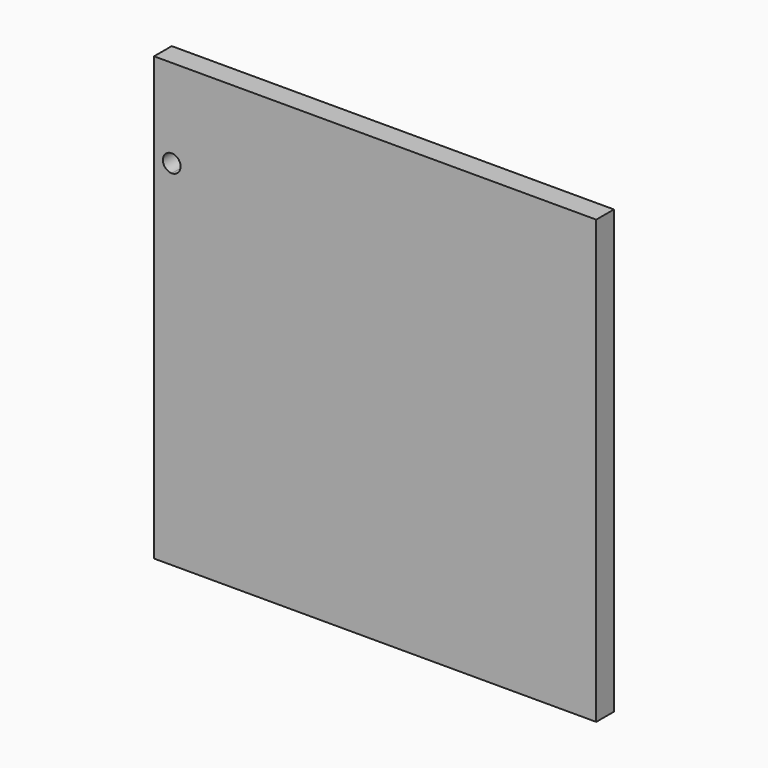
from build123d import *

# Parameters (mm, degrees)
F0_W     = 500
F0_H     = 500
F1_DEPTH = 25
F3_DEPTH = 25


with BuildPart() as f1:
    # F0 (on Front) → F1 (new body)
    with BuildSketch(Plane.XZ):
        with Locations((250, -250)):
            Rectangle(F0_W, F0_H)
    extrude(amount=F1_DEPTH)

    # F2 (on face) → F3 (cut)
    with BuildSketch(Plane.XZ.offset(25)):
        with BuildLine():
            ThreePointArc((20, -110), (27.071068, -107.071068), (30, -100))
            ThreePointArc((30, -100), (12.928932, -92.928932), (20, -110))
        make_face()
    extrude(amount=-F3_DEPTH, mode=Mode.SUBTRACT)


solid = f1.part
